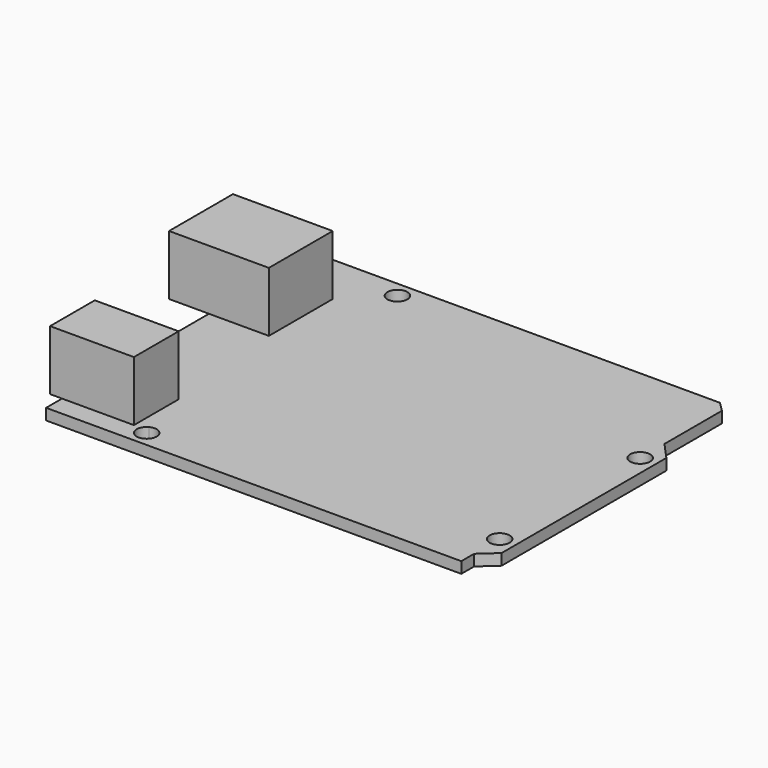
from build123d import *

# Parameters (mm, degrees)
F1_W     = 15.875
F1_H     = 12.7
F2_DEPTH = 9.525
F1_W_2   = 13.335
F1_H_2   = 8.89
F0_R     = 1.5875
F3_DEPTH = 1.778


with BuildPart() as f2:
    # F1 (on Top) → F2 (new body)
    with BuildSketch(Plane.XY):
        with Locations((-64.4525, 20.4289640361)):
            Rectangle(F1_W, F1_H)
    extrude(amount=F2_DEPTH)


with BuildPart() as f2b:
    # F1 (on Top) → F2, piece 2 (new body)
    with BuildSketch(Plane.XY):
        with Locations((-61.2775, -10.6860359639)):
            Rectangle(F1_W_2, F1_H_2)
    extrude(amount=F2_DEPTH)


with BuildPart() as f3:
    # F0 (on Top) → F3 (new body)
    with BuildSketch(Plane.XY):
        Polygon((-66.04, 35.0339640361), (-66.04, -18.3060359639), (-5.7715834118, -18.3060359639), (0, -18.3060359639), (0, -15.7660359639), (2.54, -13.4714379648), (2.54, 19.2945620352), (0, 22.0799640361), (0, 33.5099640361), (-1.524, 35.0339640361), align=None)
        with BuildLine():
            ThreePointArc((-52.8291677684, -14.3718263134), (-51.2591432254, -14.4012401765), (-50.4825, -15.7660359639))
            ThreePointArc((-50.4825, -15.7660359639), (-52.8808567746, -17.1308317512), (-52.8291677684, -14.3718263134))
        make_face(mode=Mode.SUBTRACT)
        with Locations((0, -10.6860359639)):
            Circle(F0_R, mode=Mode.SUBTRACT)
        with Locations((-50.8, 32.4939640361)):
            Circle(F0_R, mode=Mode.SUBTRACT)
        with Locations((0, 17.2539640361)):
            Circle(F0_R, mode=Mode.SUBTRACT)
    extrude(amount=-F3_DEPTH)


solid = Compound([f2.part, f2b.part, f3.part])
